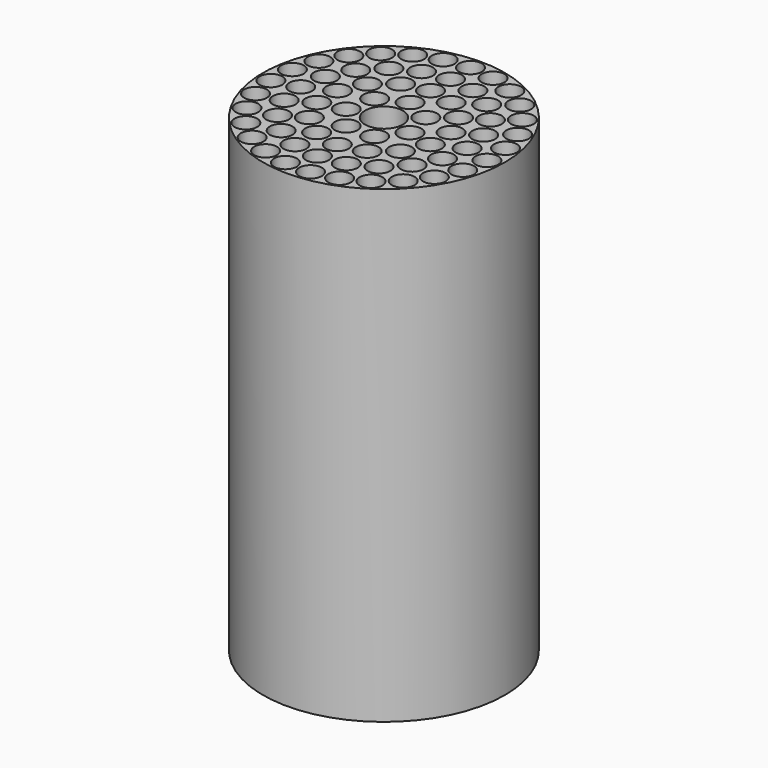
from build123d import *

# Parameters (mm, degrees)
F0_R     = 16
F0_R_2   = 1.5
F0_R_3   = 2.5
F1_DEPTH = 62


with BuildPart() as f1:
    # F0 (on Top) → F1 (new body)
    with BuildSketch(Plane.XY):
        Circle(F0_R)
        with Locations((-10.401443, -9.813255)):
            Circle(F0_R_2, mode=Mode.SUBTRACT)
        with Locations((-4.890888, -13.437604)):
            Circle(F0_R_2, mode=Mode.SUBTRACT)
        with Locations((-1.660129, -14.203309)):
            Circle(F0_R_2, mode=Mode.SUBTRACT)
        with Locations((-7.857978, -11.947476)):
            Circle(F0_R_2, mode=Mode.SUBTRACT)
        with Locations((-6.465638, -8.899187)):
            Circle(F0_R_2, mode=Mode.SUBTRACT)
        with Locations((-3.399187, -10.461622)):
            Circle(F0_R_2, mode=Mode.SUBTRACT)
        with Locations((-12.384163, -7.15)):
            Circle(F0_R_2, mode=Mode.SUBTRACT)
        with Locations((-13.69925, -4.101286)):
            Circle(F0_R_2, mode=Mode.SUBTRACT)
        with Locations((-8.899187, -6.465638)):
            Circle(F0_R_2, mode=Mode.SUBTRACT)
        with Locations((-14.275807, -0.831471)):
            Circle(F0_R_2, mode=Mode.SUBTRACT)
        with Locations((-10.461622, -3.399187)):
            Circle(F0_R_2, mode=Mode.SUBTRACT)
        with Locations((-6.020102, -4.800871)):
            Circle(F0_R_2, mode=Mode.SUBTRACT)
        with Locations((-3.340905, -6.93746)):
            Circle(F0_R_2, mode=Mode.SUBTRACT)
        with Locations((-7.506945, -1.713411)):
            Circle(F0_R_2, mode=Mode.SUBTRACT)
        with Locations((-4.211534, -0.961255)):
            Circle(F0_R_2, mode=Mode.SUBTRACT)
        with Locations((-1.874309, -3.892043)):
            Circle(F0_R_2, mode=Mode.SUBTRACT)
        with Locations((1.660129, -14.203309)):
            Circle(F0_R_2, mode=Mode.SUBTRACT)
        with Locations((4.890888, -13.437604)):
            Circle(F0_R_2, mode=Mode.SUBTRACT)
        with Locations((0, -11)):
            Circle(F0_R_2, mode=Mode.SUBTRACT)
        with Locations((3.399187, -10.461622)):
            Circle(F0_R_2, mode=Mode.SUBTRACT)
        with Locations((7.857978, -11.947476)):
            Circle(F0_R_2, mode=Mode.SUBTRACT)
        with Locations((6.465638, -8.899187)):
            Circle(F0_R_2, mode=Mode.SUBTRACT)
        with Locations((10.401443, -9.813255)):
            Circle(F0_R_2, mode=Mode.SUBTRACT)
        with Locations((0, -7.7)):
            Circle(F0_R_2, mode=Mode.SUBTRACT)
        with Locations((3.340905, -6.93746)):
            Circle(F0_R_2, mode=Mode.SUBTRACT)
        with Locations((6.020102, -4.800871)):
            Circle(F0_R_2, mode=Mode.SUBTRACT)
        with Locations((1.874309, -3.892043)):
            Circle(F0_R_2, mode=Mode.SUBTRACT)
        with Locations((4.211534, -0.961255)):
            Circle(F0_R_2, mode=Mode.SUBTRACT)
        with Locations((7.506945, -1.713411)):
            Circle(F0_R_2, mode=Mode.SUBTRACT)
        with Locations((8.899187, -6.465638)):
            Circle(F0_R_2, mode=Mode.SUBTRACT)
        with Locations((12.384163, -7.15)):
            Circle(F0_R_2, mode=Mode.SUBTRACT)
        with Locations((13.69925, -4.101286)):
            Circle(F0_R_2, mode=Mode.SUBTRACT)
        with Locations((10.461622, -3.399187)):
            Circle(F0_R_2, mode=Mode.SUBTRACT)
        with Locations((14.275807, -0.831471)):
            Circle(F0_R_2, mode=Mode.SUBTRACT)
        with Locations((-14.082751, 2.483169)):
            Circle(F0_R_2, mode=Mode.SUBTRACT)
        with Locations((-11, 0)):
            Circle(F0_R_2, mode=Mode.SUBTRACT)
        with Locations((-10.461622, 3.399187)):
            Circle(F0_R_2, mode=Mode.SUBTRACT)
        with Locations((-13.13049, 5.663941)):
            Circle(F0_R_2, mode=Mode.SUBTRACT)
        with Locations((-8.899187, 6.465638)):
            Circle(F0_R_2, mode=Mode.SUBTRACT)
        with Locations((-7.506945, 1.713411)):
            Circle(F0_R_2, mode=Mode.SUBTRACT)
        with Locations((-3.377388, 2.693377)):
            Circle(F0_R_2, mode=Mode.SUBTRACT)
        with Locations((-6.020102, 4.800871)):
            Circle(F0_R_2, mode=Mode.SUBTRACT)
        with Locations((-3.340905, 6.93746)):
            Circle(F0_R_2, mode=Mode.SUBTRACT)
        with Locations((-11.470362, 8.539368)):
            Circle(F0_R_2, mode=Mode.SUBTRACT)
        with Locations((-9.191863, 10.954436)):
            Circle(F0_R_2, mode=Mode.SUBTRACT)
        with Locations((-6.465638, 8.899187)):
            Circle(F0_R_2, mode=Mode.SUBTRACT)
        with Locations((-3.399187, 10.461622)):
            Circle(F0_R_2, mode=Mode.SUBTRACT)
        with Locations((-6.417828, 12.778947)):
            Circle(F0_R_2, mode=Mode.SUBTRACT)
        with Locations((-3.297807, 13.914542)):
            Circle(F0_R_2, mode=Mode.SUBTRACT)
        Circle(F0_R_3, mode=Mode.SUBTRACT)
        with Locations((3.377388, 2.693377)):
            Circle(F0_R_2, mode=Mode.SUBTRACT)
        with Locations((7.506945, 1.713411)):
            Circle(F0_R_2, mode=Mode.SUBTRACT)
        with Locations((0, 4.319842)):
            Circle(F0_R_2, mode=Mode.SUBTRACT)
        with Locations((0, 7.7)):
            Circle(F0_R_2, mode=Mode.SUBTRACT)
        with Locations((3.340905, 6.93746)):
            Circle(F0_R_2, mode=Mode.SUBTRACT)
        with Locations((6.020102, 4.800871)):
            Circle(F0_R_2, mode=Mode.SUBTRACT)
        with Locations((11, 0)):
            Circle(F0_R_2, mode=Mode.SUBTRACT)
        with Locations((10.461622, 3.399187)):
            Circle(F0_R_2, mode=Mode.SUBTRACT)
        with Locations((14.082751, 2.483169)):
            Circle(F0_R_2, mode=Mode.SUBTRACT)
        with Locations((8.899187, 6.465638)):
            Circle(F0_R_2, mode=Mode.SUBTRACT)
        with Locations((13.13049, 5.663941)):
            Circle(F0_R_2, mode=Mode.SUBTRACT)
        with Locations((0, 11)):
            Circle(F0_R_2, mode=Mode.SUBTRACT)
        with Locations((3.399187, 10.461622)):
            Circle(F0_R_2, mode=Mode.SUBTRACT)
        with Locations((6.465638, 8.899187)):
            Circle(F0_R_2, mode=Mode.SUBTRACT)
        with Locations((3.297807, 13.914542)):
            Circle(F0_R_2, mode=Mode.SUBTRACT)
        with Locations((0, 14.3)):
            Circle(F0_R_2, mode=Mode.SUBTRACT)
        with Locations((6.417828, 12.778947)):
            Circle(F0_R_2, mode=Mode.SUBTRACT)
        with Locations((11.470362, 8.539368)):
            Circle(F0_R_2, mode=Mode.SUBTRACT)
        with Locations((9.191863, 10.954436)):
            Circle(F0_R_2, mode=Mode.SUBTRACT)
    extrude(amount=F1_DEPTH)


solid = f1.part
